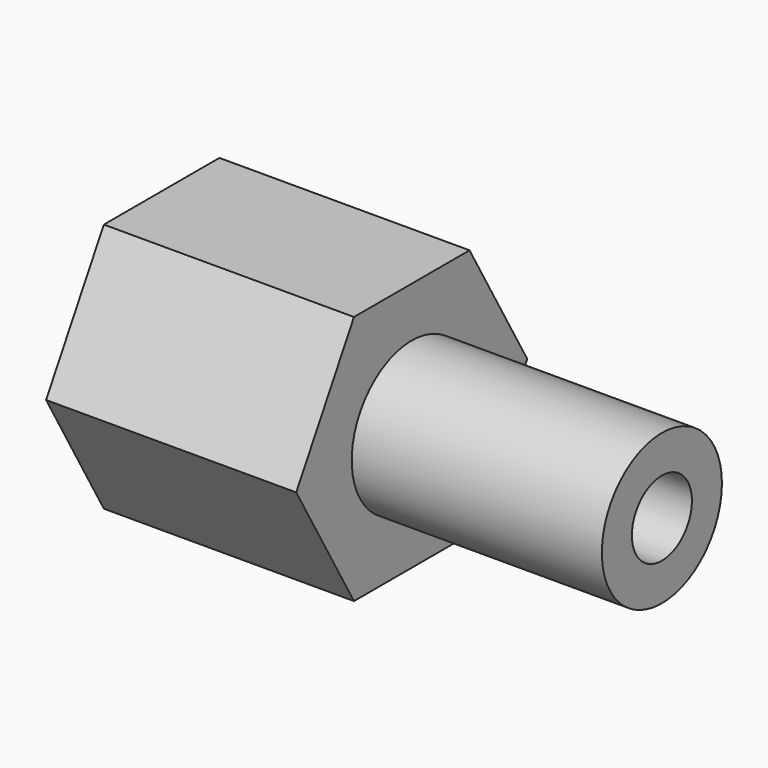
from build123d import *

# Parameters (mm, degrees)
F1_DEPTH = 10
F2_R     = 3
F3_DEPTH = 10
F4_R     = 1.5
F5_DEPTH = 25
F6_R     = 3
F7_DEPTH = 5


with BuildPart() as f1:
    # F0 (on Right) → F1 (new body)
    with BuildSketch(Plane.YZ):
        Polygon((2.886751, 5), (-2.886751, 5), (-5.773503, 0), (-2.886751, -5), (2.886751, -5), (5.773503, 0), align=None)
    extrude(amount=F1_DEPTH)

    # F2 (on face) → F3 (join)
    with BuildSketch(Plane.YZ.offset(10)):
        Circle(F2_R)
    extrude(amount=F3_DEPTH)

    # F4 (on face) → F5 (cut)
    with BuildSketch(Plane(origin=(0, 0, 0), x_dir=(0, -1, 0), z_dir=(-1, 0, 0))):
        Circle(F4_R)
    extrude(amount=-F5_DEPTH, mode=Mode.SUBTRACT)

    # F6 (on face) → F7 (cut)
    with BuildSketch(Plane(origin=(0, 0, 0), x_dir=(0, -1, 0), z_dir=(-1, 0, 0))):
        Circle(F6_R)
    extrude(amount=-F7_DEPTH, mode=Mode.SUBTRACT)


solid = f1.part
